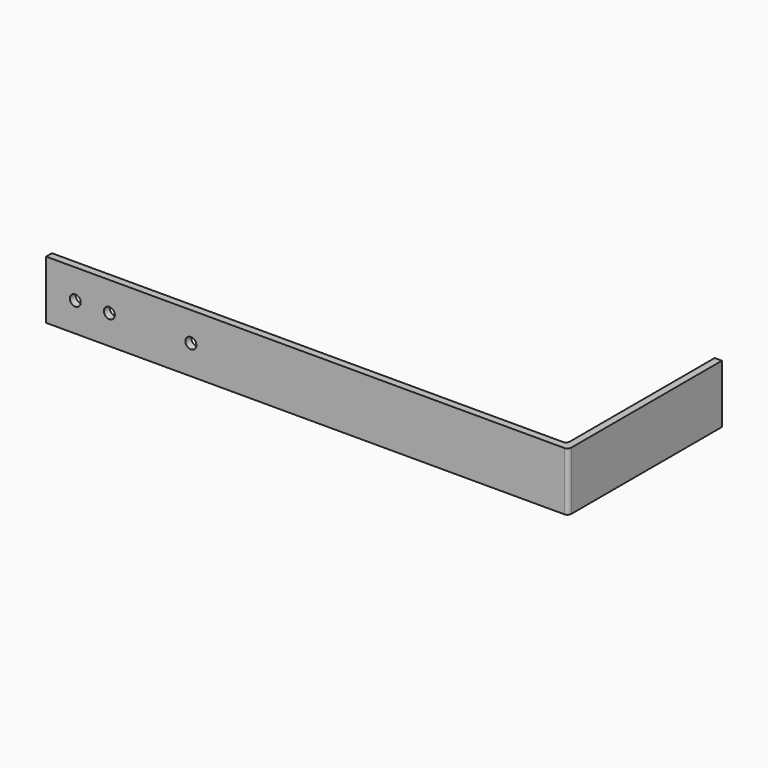
from build123d import *

# Parameters (mm, degrees)
F1_DEPTH = 76.2
F2_R     = 7.15
F3_DEPTH = 9.501
F4_R     = 5
F5_R     = 5


with BuildPart() as f1:
    # F0 (on Top) → F1 (new body)
    with BuildSketch(Plane.XY):
        Polygon((0, 9.5), (0, 0), (681.5, 0), (681.5, 250.8), (672, 250.8), (672, 9.5), align=None)
    extrude(amount=F1_DEPTH)

    # F2 (on face) → F3 (cut, through all)
    with BuildSketch(Plane(origin=(0, 9.5, 0), x_dir=(-1, 0, 0), z_dir=(0, 1, 0))):
        with Locations((-38.1, 38.1)):
            Circle(F2_R)
        with Locations((-82.6, 38.1)):
            Circle(F2_R)
        with Locations((-189, 38.1)):
            Circle(F2_R)
    extrude(amount=-F3_DEPTH, mode=Mode.SUBTRACT)

    # F4
    f4_edges = [f1.edges().sort_by_distance(p)[0] for p in [
        (681.5, 0, 38.1),
    ]]
    fillet(f4_edges, radius=F4_R)

    # F5
    f5_edges = [f1.edges().sort_by_distance(p)[0] for p in [
        (672, 9.5, 38.1),
    ]]
    fillet(f5_edges, radius=F5_R)


solid = f1.part
